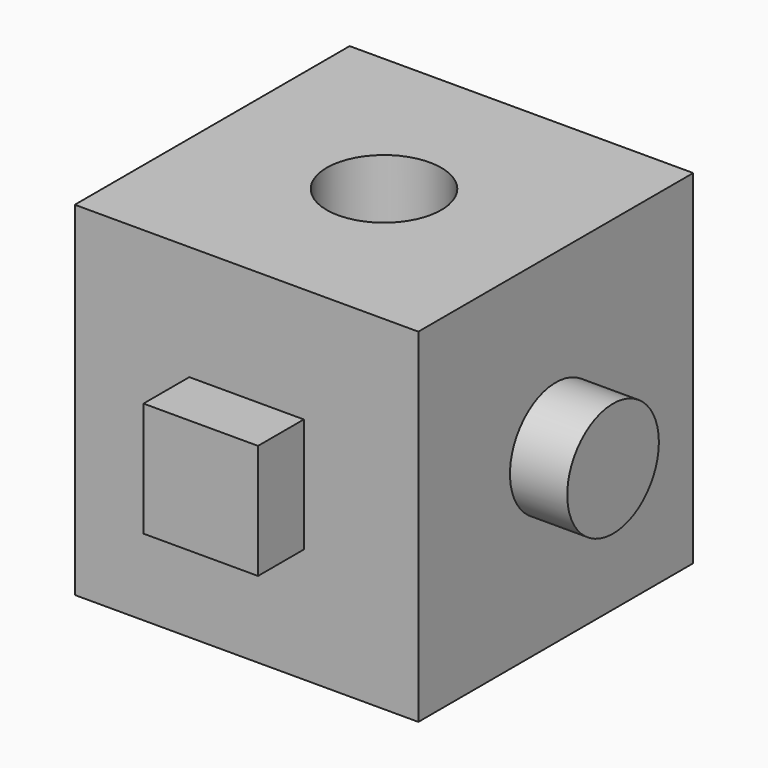
from build123d import *

# Parameters (mm, degrees)
F0_W     = 76.2
F0_H     = 76.2
F1_DEPTH = 76.2
F3_DEPTH = 12.7
F4_R     = 12.7
F5_DEPTH = 12.7
F7_D     = 25.4


with BuildPart() as f1:
    # F0 (on Front) → F1 (new body)
    with BuildSketch(Plane.XZ):
        with Locations((-3.223153, 16.921757)):
            Rectangle(F0_W, F0_H)
    extrude(amount=F1_DEPTH)

    # F2 (on face) → F3 (join)
    with BuildSketch(Plane.XZ.offset(76.2)):
        Polygon((-3.223153, 29.621757), (-15.923153, 29.621757), (-15.923153, 4.221757), (9.476847, 4.221757), (9.476847, 29.621757), (-2.963288, 29.621757), align=None)
    extrude(amount=F3_DEPTH)

    # F4 (on face) → F5 (join)
    with BuildSketch(Plane.YZ.offset(34.876847)):
        with Locations((-38.1, 16.921757)):
            Circle(F4_R)
    extrude(amount=F5_DEPTH)

    # F7 (through all)
    with Locations(Plane.XY.offset(55.021757)):
        with Locations((-3.223153, -38.1)):
            Hole(F7_D / 2)


solid = f1.part
